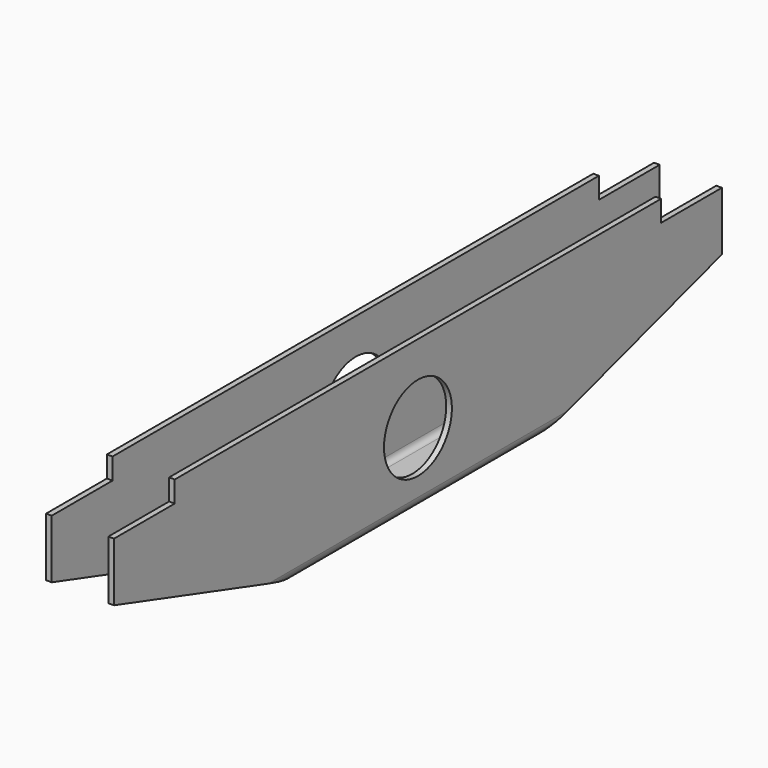
from build123d import *

# Parameters (mm, degrees)
F1_DEPTH = 107.5
F2_W     = 21.5
F2_H     = 6
F2_R     = 12
F3_DEPTH = 25
F4_R     = 7.25
F5_DEPTH = 5


with BuildPart() as f1:
    # F0 (on Front) → F1 (new body, symmetric)
    with BuildSketch(Plane.XZ):
        with BuildLine():
            Line((-6.4, 0), (0, 0))
            Line((0, 0), (6.4, 0))
            ThreePointArc((6.4, 0), (8.662742, 0.937258), (9.6, 3.2))
            Line((9.6, 3.2), (9.6, 42.6))
            Line((9.6, 42.6), (8, 42.6))
            Line((8, 42.6), (8, 3.2))
            ThreePointArc((8, 3.2), (7.531371, 2.068629), (6.4, 1.6))
            Line((6.4, 1.6), (0, 1.6))
            Line((0, 1.6), (-6.4, 1.6))
            ThreePointArc((-6.4, 1.6), (-7.531371, 2.068629), (-8, 3.2))
            Line((-8, 3.2), (-8, 42.6))
            Line((-8, 42.6), (-9.6, 42.6))
            Line((-9.6, 42.6), (-9.6, 3.2))
            ThreePointArc((-9.6, 3.2), (-8.662742, 0.937258), (-6.4, 0))
        make_face()
    extrude(amount=F1_DEPTH, both=True)

    # F2 (on face) → F3 (cut)
    with BuildSketch(Plane(origin=(-9.6, 0, 0), x_dir=(0, -1, 0), z_dir=(-1, 0, 0))):
        with Locations((-96.75, 39.6)):
            Rectangle(F2_W, F2_H)
        Polygon((-42.5, 0), (-107.5, 20), (-107.5, 0), align=None)
        Polygon((42.5, 0), (107.5, 0), (107.5, 20), align=None)
        with Locations((96.75, 39.6)):
            Rectangle(F2_W, F2_H)
        with Locations((0, 20.5)):
            Circle(F2_R)
    extrude(amount=-F3_DEPTH, mode=Mode.SUBTRACT)

    # F4 (on face) → F5 (cut)
    with BuildSketch(Plane(origin=(0, 0, 0), x_dir=(1, 0, 0), z_dir=(0, 0, -1))):
        with Locations((0, -45)):
            Circle(F4_R)
        with Locations((0, 45)):
            Circle(F4_R)
    extrude(amount=-F5_DEPTH, mode=Mode.SUBTRACT)


solid = f1.part
